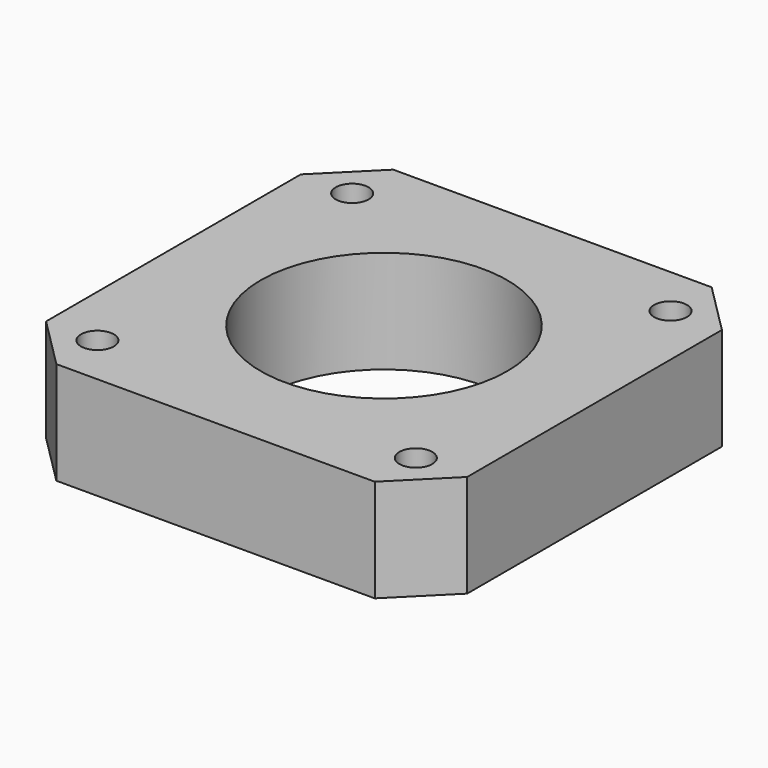
from build123d import *

# Parameters (mm, degrees)
CYLINDER014005163_R     = 1.6
CYLINDER014005163_DEPTH = 50
CYLINDER014005162_R     = 12
CYLINDER014005162_DEPTH = 50
CYLINDER014005160_R     = 1.6
CYLINDER014005160_DEPTH = 50
CYLINDER014005159_R     = 1.6
CYLINDER014005159_DEPTH = 50
CYLINDER014005161_R     = 1.6
CYLINDER014005161_DEPTH = 50
BOX011_W                = 41
BOX011_H                = 41
BOX011_DEPTH            = 10
CHAMFER002_SIZE         = 5


with BuildPart() as obj1:
    # Cylinder014005163 → Cylinder014005163 (new body)
    with BuildSketch(Plane(origin=(15.5, 15.5, 0), x_dir=(1, 0, 0), z_dir=(0, 0, 1))):
        Circle(CYLINDER014005163_R)
    extrude(amount=CYLINDER014005163_DEPTH)


with BuildPart() as obj2:
    # Cylinder014005162 → Cylinder014005162 (new body)
    with BuildSketch(Plane.XY):
        Circle(CYLINDER014005162_R)
    extrude(amount=CYLINDER014005162_DEPTH)


with BuildPart() as obj3:
    # Cylinder014005160 → Cylinder014005160 (new body)
    with BuildSketch(Plane(origin=(-15.5, -15.5, 0), x_dir=(1, 0, 0), z_dir=(0, 0, 1))):
        Circle(CYLINDER014005160_R)
    extrude(amount=CYLINDER014005160_DEPTH)


with BuildPart() as obj4:
    # Cylinder014005159 → Cylinder014005159 (new body)
    with BuildSketch(Plane(origin=(15.5, -15.5, 0), x_dir=(1, 0, 0), z_dir=(0, 0, 1))):
        Circle(CYLINDER014005159_R)
    extrude(amount=CYLINDER014005159_DEPTH)


with BuildPart() as obj5:
    # Cylinder014005161 → Cylinder014005161 (new body)
    with BuildSketch(Plane(origin=(-15.5, 15.5, 0), x_dir=(1, 0, 0), z_dir=(0, 0, 1))):
        Circle(CYLINDER014005161_R)
    extrude(amount=CYLINDER014005161_DEPTH)

    # Fusion093: union obj1, obj2, obj3, obj4
    add(obj1.part)
    add(obj2.part)
    add(obj3.part)
    add(obj4.part)


with BuildPart() as cut061008:
    # Box011 → Box011 (new body)
    with BuildSketch(Plane(origin=(-20.5, -20.5, 0), x_dir=(1, 0, 0), z_dir=(0, 0, 1))):
        with Locations((20.5, 20.5)):
            Rectangle(BOX011_W, BOX011_H)
    extrude(amount=BOX011_DEPTH)

    # Chamfer002
    chamfer002_edges = [cut061008.edges().sort_by_distance(p)[0] for p in [
        (-20.5, -20.5, 5),
        (-20.5, 20.5, 5),
        (20.5, -20.5, 5),
        (20.5, 20.5, 5),
    ]]
    chamfer(chamfer002_edges, length=CHAMFER002_SIZE)

    # Cut061008: cut obj5
    add(obj5.part, mode=Mode.SUBTRACT)


solid = cut061008.part
